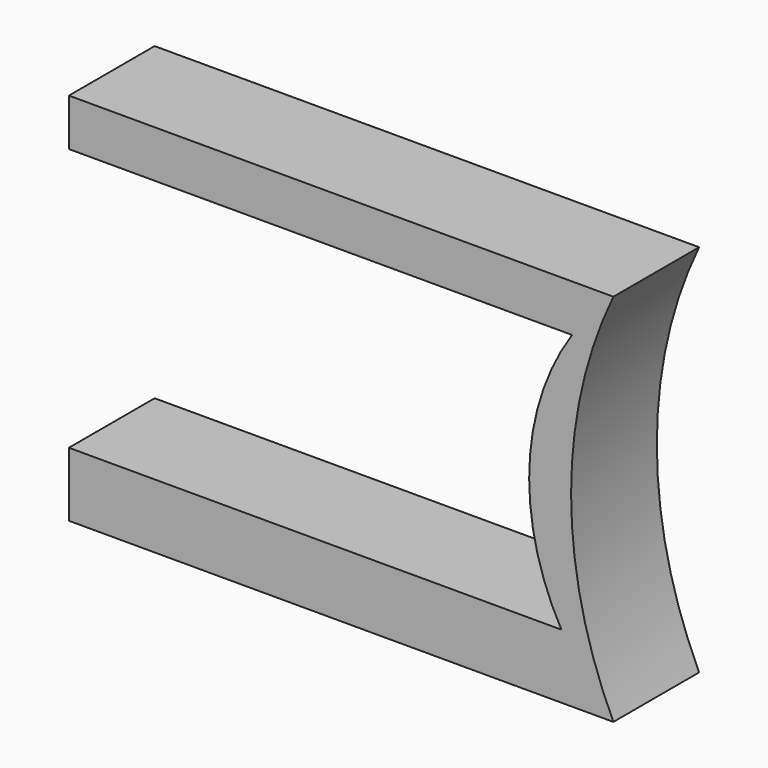
from build123d import *

# Parameters (mm, degrees)
F1_DEPTH = 10


with BuildPart() as f1:
    # F0 (on Front) → F1 (new body)
    with BuildSketch(Plane.XZ):
        with BuildLine():
            Line((1.427054, 34.925), (-49.372946, 34.925))
            Line((-49.372946, 34.925), (-49.372946, 30.529865))
            Line((-49.372946, 30.529865), (-2.427831, 30.529865))
            ThreePointArc((-2.427831, 30.529865), (-0.638579, 32.848636), (1.427054, 34.925))
        make_face()
        with BuildLine():
            Line((-49.372946, 0), (1.427054, 0))
            ThreePointArc((1.427054, 0), (-1.246391, 2.798302), (-3.420543, 6))
            Line((-3.420543, 6), (-49.372946, 6))
            Line((-49.372946, 6), (-49.372946, 0))
        make_face()
        with BuildLine():
            ThreePointArc((1.427054, 0), (-2.517107, 17.4625), (1.427054, 34.925))
            ThreePointArc((1.427054, 34.925), (-0.638579, 32.848636), (-2.427831, 30.529865))
            ThreePointArc((-2.427831, 30.529865), (-6.410939, 18.40604), (-3.420543, 6))
            ThreePointArc((-3.420543, 6), (-1.246391, 2.798302), (1.427054, 0))
        make_face()
    extrude(amount=F1_DEPTH)


solid = f1.part
